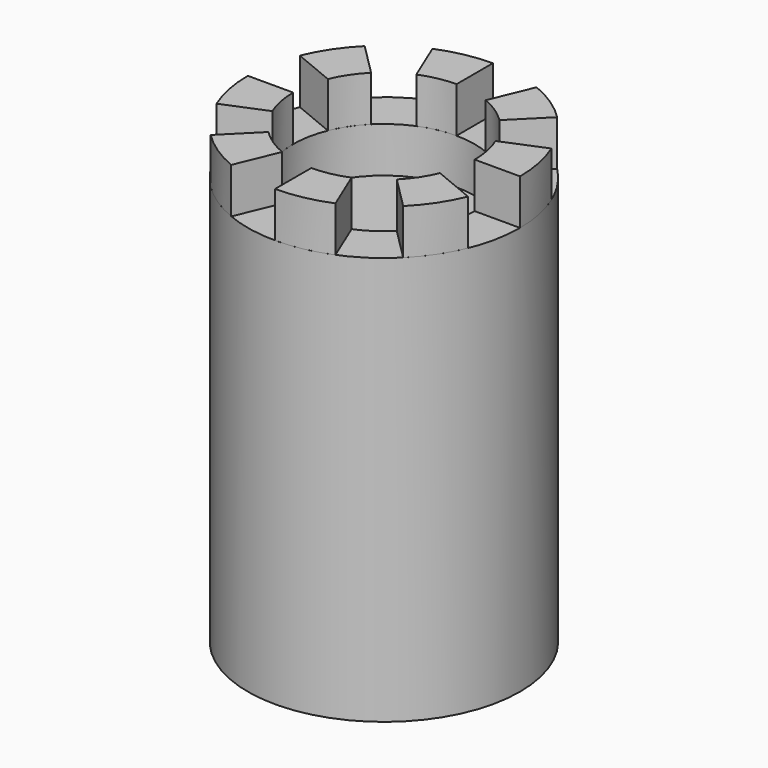
from build123d import *

# Parameters (mm, degrees)
CYLINDER001_R               = 20
CYLINDER001_DEPTH           = 10
CYLINDER_R                  = 30
CYLINDER_DEPTH              = 90
CYLINDER010_R               = 20
CYLINDER010_DEPTH           = 10
CYLINDER009_W               = 30
CYLINDER009_H               = 10
CYLINDER009_ANGLE           = 22.5
CYLINDER009_PLACEMENT_ANGLE = 315
CYLINDER008_W               = 30
CYLINDER008_H               = 10
CYLINDER008_ANGLE           = 22.5
CYLINDER007_W               = 30
CYLINDER007_H               = 10
CYLINDER007_ANGLE           = 22.5
CYLINDER007_PLACEMENT_ANGLE = 225
CYLINDER006_W               = 30
CYLINDER006_H               = 10
CYLINDER006_ANGLE           = 22.5
CYLINDER005_W               = 30
CYLINDER005_H               = 10
CYLINDER005_ANGLE           = 22.5
CYLINDER005_PLACEMENT_ANGLE = 135
CYLINDER004_W               = 30
CYLINDER004_H               = 10
CYLINDER004_ANGLE           = 22.5
CYLINDER003_W               = 30
CYLINDER003_H               = 10
CYLINDER003_ANGLE           = 22.5
CYLINDER003_PLACEMENT_ANGLE = 45
CYLINDER002_W               = 30
CYLINDER002_H               = 10
CYLINDER002_ANGLE           = 22.5


with BuildPart() as cylinder001:
    # Cylinder001 → Cylinder001 (new body)
    with BuildSketch(Plane.XY.offset(80)):
        Circle(CYLINDER001_R)
    extrude(amount=CYLINDER001_DEPTH)


with BuildPart() as cut:
    # Cylinder → Cylinder (new body)
    with BuildSketch(Plane.XY):
        Circle(CYLINDER_R)
    extrude(amount=CYLINDER_DEPTH)

    # Cut: cut Cylinder001
    add(cylinder001.part, mode=Mode.SUBTRACT)


with BuildPart() as cylinder010:
    # Cylinder010 → Cylinder010 (new body)
    with BuildSketch(Plane.XY.offset(90)):
        Circle(CYLINDER010_R)
    extrude(amount=CYLINDER010_DEPTH)


with BuildPart() as cut001:
    # Cylinder009 → Cylinder009 (revolve)
    with BuildSketch(Plane.XZ):
        with Locations((15, 5)):
            Rectangle(CYLINDER009_W, CYLINDER009_H)
    revolve(axis=Axis((0, 0, 0), (0, 0, 1)), revolution_arc=CYLINDER009_ANGLE)


with BuildPart() as cut001_1:
    # Cylinder009 placement: moved
    add(cut001.part.moved(Location((0, 0, 90))).rotate(Axis((0, 0, 90), (0, 0, 1)), CYLINDER009_PLACEMENT_ANGLE))

    # Cut001: cut Cylinder010
    add(cylinder010.part, mode=Mode.SUBTRACT)


with BuildPart() as cut002:
    # Cylinder008 → Cylinder008 (revolve)
    with BuildSketch(Plane(origin=(0, 0, 90), x_dir=(0, -1, 0), z_dir=(-1, 0, 0))):
        with Locations((15, 5)):
            Rectangle(CYLINDER008_W, CYLINDER008_H)
    revolve(axis=Axis((0, 0, 90), (0, 0, 1)), revolution_arc=CYLINDER008_ANGLE)

    # Cut002: cut Cylinder010
    add(cylinder010.part, mode=Mode.SUBTRACT)


with BuildPart() as cut003:
    # Cylinder007 → Cylinder007 (revolve)
    with BuildSketch(Plane.XZ):
        with Locations((15, 5)):
            Rectangle(CYLINDER007_W, CYLINDER007_H)
    revolve(axis=Axis((0, 0, 0), (0, 0, 1)), revolution_arc=CYLINDER007_ANGLE)


with BuildPart() as cut003_1:
    # Cylinder007 placement: moved
    add(cut003.part.moved(Location((0, 0, 90))).rotate(Axis((0, 0, 90), (0, 0, 1)), CYLINDER007_PLACEMENT_ANGLE))

    # Cut003: cut Cylinder010
    add(cylinder010.part, mode=Mode.SUBTRACT)


with BuildPart() as cut004:
    # Cylinder006 → Cylinder006 (revolve)
    with BuildSketch(Plane(origin=(0, 0, 90), x_dir=(-1, 0, 0), z_dir=(0, 1, 0))):
        with Locations((15, 5)):
            Rectangle(CYLINDER006_W, CYLINDER006_H)
    revolve(axis=Axis((0, 0, 90), (0, 0, 1)), revolution_arc=CYLINDER006_ANGLE)

    # Cut004: cut Cylinder010
    add(cylinder010.part, mode=Mode.SUBTRACT)


with BuildPart() as cut005:
    # Cylinder005 → Cylinder005 (revolve)
    with BuildSketch(Plane.XZ):
        with Locations((15, 5)):
            Rectangle(CYLINDER005_W, CYLINDER005_H)
    revolve(axis=Axis((0, 0, 0), (0, 0, 1)), revolution_arc=CYLINDER005_ANGLE)


with BuildPart() as cut005_1:
    # Cylinder005 placement: moved
    add(cut005.part.moved(Location((0, 0, 90))).rotate(Axis((0, 0, 90), (0, 0, 1)), CYLINDER005_PLACEMENT_ANGLE))

    # Cut005: cut Cylinder010
    add(cylinder010.part, mode=Mode.SUBTRACT)


with BuildPart() as cut006:
    # Cylinder004 → Cylinder004 (revolve)
    with BuildSketch(Plane(origin=(0, 0, 90), x_dir=(0, 1, 0), z_dir=(1, 0, 0))):
        with Locations((15, 5)):
            Rectangle(CYLINDER004_W, CYLINDER004_H)
    revolve(axis=Axis((0, 0, 90), (0, 0, 1)), revolution_arc=CYLINDER004_ANGLE)

    # Cut006: cut Cylinder010
    add(cylinder010.part, mode=Mode.SUBTRACT)


with BuildPart() as cut007:
    # Cylinder003 → Cylinder003 (revolve)
    with BuildSketch(Plane.XZ):
        with Locations((15, 5)):
            Rectangle(CYLINDER003_W, CYLINDER003_H)
    revolve(axis=Axis((0, 0, 0), (0, 0, 1)), revolution_arc=CYLINDER003_ANGLE)


with BuildPart() as cut007_1:
    # Cylinder003 placement: moved
    add(cut007.part.moved(Location((0, 0, 90))).rotate(Axis((0, 0, 90), (0, 0, 1)), CYLINDER003_PLACEMENT_ANGLE))

    # Cut007: cut Cylinder010
    add(cylinder010.part, mode=Mode.SUBTRACT)


with BuildPart() as cut008:
    # Cylinder002 → Cylinder002 (revolve)
    with BuildSketch(Plane(origin=(0, 0, 90), x_dir=(1, 0, 0), z_dir=(0, -1, 0))):
        with Locations((15, 5)):
            Rectangle(CYLINDER002_W, CYLINDER002_H)
    revolve(axis=Axis((0, 0, 90), (0, 0, 1)), revolution_arc=CYLINDER002_ANGLE)

    # Cut008: cut Cylinder010
    add(cylinder010.part, mode=Mode.SUBTRACT)


solid = Compound([cut.part, cut001_1.part, cut002.part, cut003_1.part, cut004.part, cut005_1.part, cut006.part, cut007_1.part, cut008.part])
